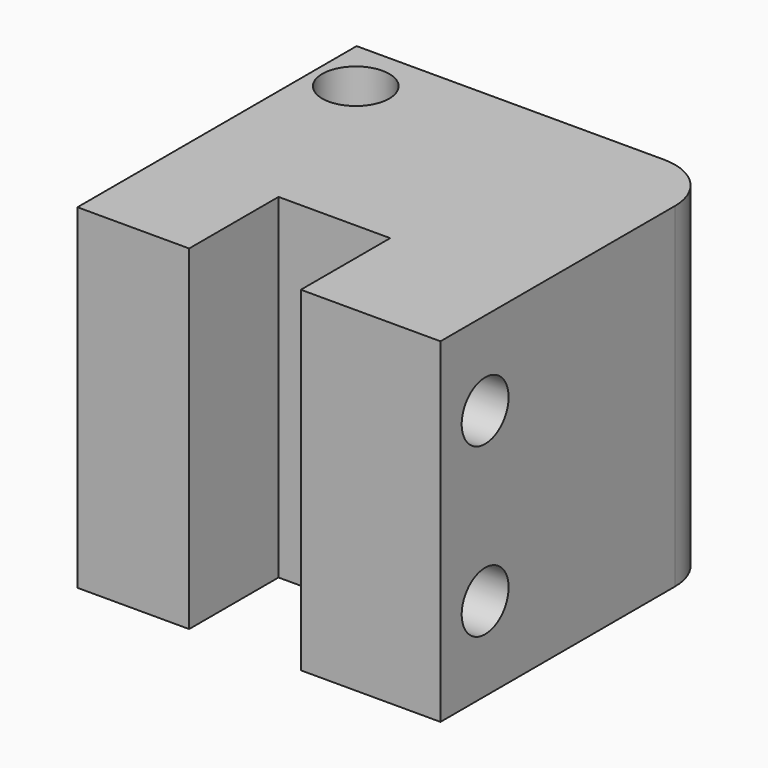
from build123d import *

# Parameters (mm, degrees)
F1_DEPTH = 30.48
F2_R     = 2.667
F3_DEPTH = 12.7
F4_R     = 5.08


with BuildPart() as f1:
    # F0 (on Top) → F1 (new body)
    with BuildSketch(Plane.XY):
        Polygon((-10.16, -16.51), (-10.16, -6.35), (0, -6.35), (0, -16.51), (12.7, -16.51), (12.7, -6.35), (12.7, 15.231052), (-17.145, 15.231052), (-20.32, 15.231052), (-20.32, -16.51), (-16.51, -16.51), align=None)
        with BuildLine():
            ThreePointArc((-13.462, 10.370257), (-14.354739, 8.214996), (-16.51, 7.322257))
            ThreePointArc((-16.51, 7.322257), (-18.665261, 12.525519), (-13.462, 10.370257))
        make_face(mode=Mode.SUBTRACT)
    extrude(amount=F1_DEPTH)

    # F2 (on face) → F3 (cut, through all)
    with BuildSketch(Plane.YZ.offset(12.7)):
        with Locations((-11.43, 22.86)):
            Circle(F2_R)
        with Locations((-11.43, 7.62)):
            Circle(F2_R)
    extrude(amount=-F3_DEPTH, mode=Mode.SUBTRACT)

    # F4
    f4_edges = [f1.edges().sort_by_distance(p)[0] for p in [
        (12.7, 15.231052, 15.24),
    ]]
    fillet(f4_edges, radius=F4_R)


solid = f1.part
